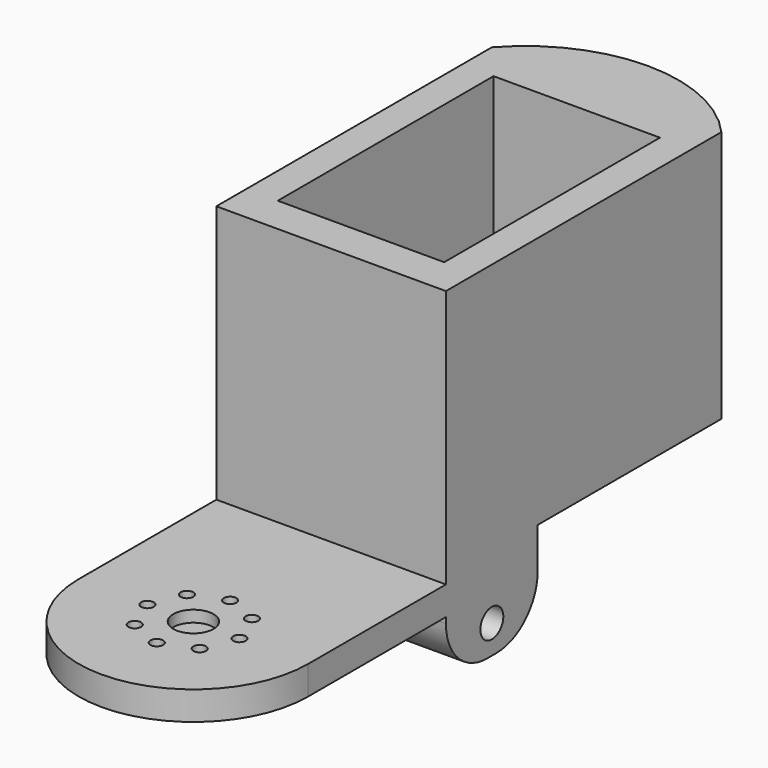
from build123d import *

# Parameters (mm, degrees)
SKETCH_W        = 29
SKETCH_H        = 47
PAD_DEPTH       = 40
SKETCH001_R     = 9.75
PAD001_DEPTH    = 10
SKETCH002_W     = 56
SKETCH002_H     = 6
POCKET_DEPTH    = 100
SKETCH003_W     = 54.44
SKETCH003_H     = 5.76
POCKET001_DEPTH = 40.001
SKETCH004_R     = 1.1
POCKET002_DEPTH = 5
SKETCH005_R     = 3.5
POCKET003_DEPTH = 2
SKETCH006_W     = 40
SKETCH006_H     = 20
PAD002_DEPTH    = 10
FILLET_R        = 9
FILLET001_R     = 9
SKETCH007_R     = 2.5
POCKET004_DEPTH = 40.001


with BuildPart() as part:
    # Sketch → Pad (new body)
    with BuildSketch(Plane.XY.offset(10)):
        with BuildLine():
            Line((0, 0), (40, 0))
            Line((40, 0), (40, 60))
            ThreePointArc((40, 60), (20, 68.990653), (0, 60))
            Line((0, 60), (0, 0))
        make_face()
        with Locations((20, 30)):
            Rectangle(SKETCH_W, SKETCH_H, mode=Mode.SUBTRACT)
    extrude(amount=PAD_DEPTH)

    # Sketch001 (on Face9 of Pad) → Pad001 (join)
    with BuildSketch(Plane(origin=(0, 0, 10), x_dir=(1, 0, 0), z_dir=(0, 0, -1))):
        with BuildLine():
            Line((40, -60), (40, 30))
            ThreePointArc((40, 30), (20, 50), (0, 30))
            Line((0, 30), (0, -60))
            ThreePointArc((0, -60), (20, -68.990653), (40, -60))
        make_face()
        with Locations((20, -42.25)):
            Circle(SKETCH001_R, mode=Mode.SUBTRACT)
    extrude(amount=PAD001_DEPTH)

    # Sketch002 (on Face7 of Pad001) → Pocket (cut)
    with BuildSketch(Plane(origin=(0, 0, 0), x_dir=(0, -1, 0), z_dir=(-1, 0, 0))):
        with Locations((-48, 3)):
            Rectangle(SKETCH002_W, SKETCH002_H)
    extrude(amount=-POCKET_DEPTH, mode=Mode.SUBTRACT)

    # Sketch003 (on Face8 of Pocket) → Pocket001 (cut, through all)
    with BuildSketch(Plane.YZ.offset(40)):
        with Locations((-27.22, 7.88)):
            Rectangle(SKETCH003_W, SKETCH003_H)
    extrude(amount=-POCKET001_DEPTH, mode=Mode.SUBTRACT)

    # Sketch004 (on Face12 of Pocket001) → Pocket002 (cut)
    with BuildSketch(Plane(origin=(0, 0, 0), x_dir=(1, 0, 0), z_dir=(0, 0, -1))):
        with Locations((11.98, 30)):
            Circle(SKETCH004_R)
        with Locations((14.34, 35.7)):
            Circle(SKETCH004_R)
        with Locations((20, 37.98)):
            Circle(SKETCH004_R)
        with Locations((25.66, 35.7)):
            Circle(SKETCH004_R)
        with Locations((28.02, 30)):
            Circle(SKETCH004_R)
        with Locations((25.66, 24.34)):
            Circle(SKETCH004_R)
        with Locations((20, 22.02)):
            Circle(SKETCH004_R)
        with Locations((14.34, 24.34)):
            Circle(SKETCH004_R)
    extrude(amount=-POCKET002_DEPTH, mode=Mode.SUBTRACT)

    # Sketch005 (on Face7 of Pocket002) → Pocket003 (cut)
    with BuildSketch(Plane.XY.offset(5)):
        with Locations((20, -30)):
            Circle(SKETCH005_R)
    extrude(amount=-POCKET003_DEPTH, mode=Mode.SUBTRACT)

    # Sketch006 (on Face12 of Pocket003) → Pad002 (join)
    with BuildSketch(Plane(origin=(0, 0, 0), x_dir=(1, 0, 0), z_dir=(0, 0, -1))):
        with Locations((20, -10)):
            Rectangle(SKETCH006_W, SKETCH006_H)
    extrude(amount=PAD002_DEPTH)

    # Fillet
    fillet_edges = [part.edges().sort_by_distance(p)[0] for p in [
        (20, 20, -10),
    ]]
    fillet(fillet_edges, radius=FILLET_R)

    # Fillet001
    fillet001_edges = [part.edges().sort_by_distance(p)[0] for p in [
        (20, 0, -10),
    ]]
    fillet(fillet001_edges, radius=FILLET001_R)

    # Sketch007 (on Face8 of Fillet001) → Pocket004 (cut, through all)
    with BuildSketch(Plane(origin=(0, 0, 0), x_dir=(0, -1, 0), z_dir=(-1, 0, 0))):
        with Locations((-10, -5)):
            Circle(SKETCH007_R)
    extrude(amount=-POCKET004_DEPTH, mode=Mode.SUBTRACT)


solid = part.part
